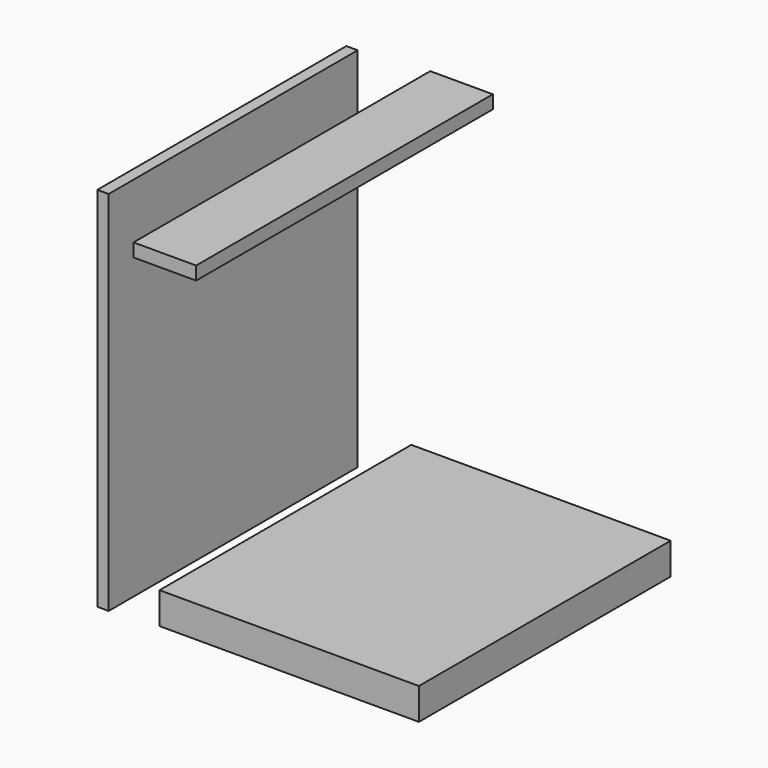
from build123d import *

# Parameters (mm, degrees)
F0_W      = 61.3116323948
F0_H      = 58.3889186382
F1_DEPTH  = 13
F2_W      = 11.0865086317
F2_H      = 54.6934604645
F3_DEPTH  = 152.4
F4_DEPTH  = 152.4
F5_DEPTH  = 152.4
F6_DEPTH  = 152.4
F7_DEPTH  = 304.8
F9_W      = 308.1811517477
F9_H      = 30.9769511223
F10_DEPTH = 254


with BuildPart() as f1:
    # F0 (on Top) → F1 (new body)
    with BuildSketch(Plane.XY):
        with Locations((28.4722298384, 0)):
            Rectangle(F0_W, F0_H)
    extrude(amount=F1_DEPTH)

    # F5 (add): a face of the model
    f5_faces = [f1.faces().sort_by_distance(p)[0] for p in [
        (28.4722298384, -29.1944593191, 6.5),
    ]]
    extrude(f5_faces, amount=F5_DEPTH)

    # F6 (add): a face of the model
    f6_faces = [f1.faces().sort_by_distance(p)[0] for p in [
        (28.4722298384, 29.1944593191, 6.5),
    ]]
    extrude(f6_faces, amount=F6_DEPTH)


with BuildPart() as f3:
    # F2 (on Front) → F3 (new body)
    with BuildSketch(Plane.XZ):
        with Locations((-55.4325506091, 0)):
            Rectangle(F2_W, F2_H)
    extrude(amount=F3_DEPTH)

    # F4 (add): a face of the model
    f4_faces = [f3.faces().sort_by_distance(p)[0] for p in [
        (-55.4325506091, 0, 0),
    ]]
    extrude(f4_faces, amount=F4_DEPTH)

    # F7 (add): a face of the model
    f7_faces = [f3.faces().sort_by_distance(p)[0] for p in [
        (-55.4325506091, 0, -27.3467302322),
    ]]
    extrude(f7_faces, amount=F7_DEPTH)


with BuildPart() as f10:
    # F9 (on Right) → F10 (new body)
    with BuildSketch(Plane.YZ):
        with Locations((1.5885010362, -313.4380877018)):
            Rectangle(F9_W, F9_H)
    extrude(amount=F10_DEPTH)


solid = Compound([f1.part, f3.part, f10.part])
